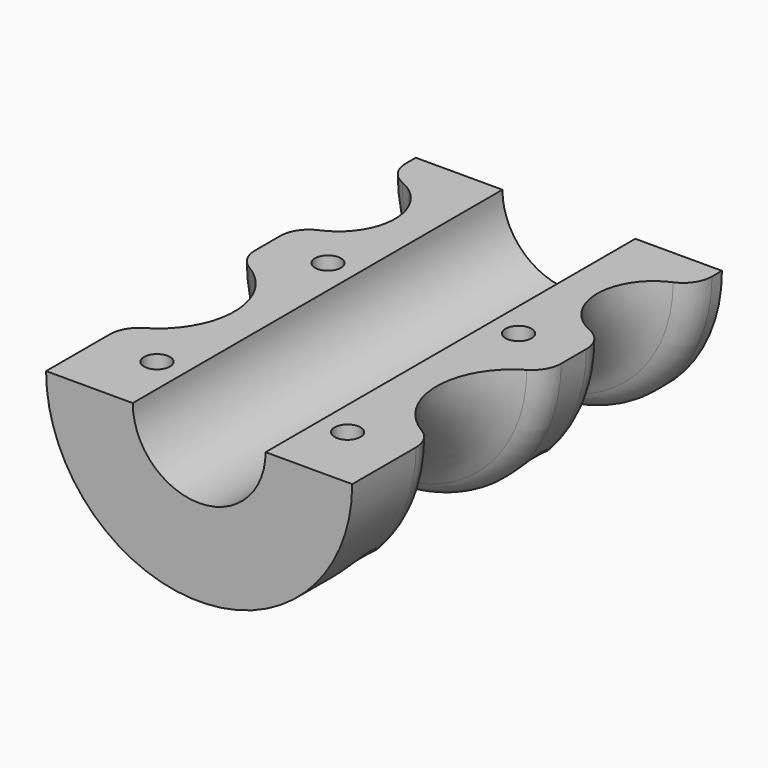
from build123d import *

# Parameters (mm, degrees)
F1_ANGLE       = 180
F4_D           = 4.5
F4_START       = 9.7071445
F4_CBORE_D     = 8
F4_CBORE_DEPTH = 8
F5_D           = 4.5
F6_DEPTH       = 16
F7_DEPTH       = 16


with BuildPart() as f1:
    # F0 (on Top) → F1 (revolve)
    with BuildSketch(Plane.XY):
        with BuildLine():
            Line((11.5, 80), (11.5, 0))
            Line((11.5, 0), (26.5, 0))
            Line((26.5, 0), (26.5, 13.8076451735))
            ThreePointArc((26.5, 13.8076451735), (25.8372883559, 16.2952001412), (24.0248281131, 18.123342452))
            ThreePointArc((24.0248281131, 18.123342452), (17.5, 29.5), (24.0248281131, 40.876657548))
            ThreePointArc((24.0248281131, 40.876657548), (25.8372883559, 42.7047998588), (26.5, 45.1923548265))
            Line((26.5, 45.1923548265), (26.5, 50.6462321396))
            ThreePointArc((26.5, 50.6462321396), (25.6700127509, 53.4050350788), (23.455602537, 55.2479295131))
            ThreePointArc((23.455602537, 55.2479295131), (17.5, 64.25), (23.455602537, 73.2520704869))
            ThreePointArc((23.455602537, 73.2520704869), (25.6700127509, 75.0949649212), (26.5, 77.8537678604))
            Line((26.5, 77.8537678604), (26.5, 80))
            Line((26.5, 80), (11.5, 80))
        make_face()
    revolve(axis=Axis((0, 49.9980136495, 0), (0, 1, 0)), revolution_arc=F1_ANGLE)

    # F4 (through all)
    # its depths count from where the whole tool has entered the part; down to there all is cleared
    with Locations(Plane(origin=(0, 0, -26.5), x_dir=(1, 0, 0), z_dir=(0, 0, -1)).offset(-F4_START)):
        with Locations((16.5, -11.5), (16.5, -48.5)):
            CounterBoreHole(F4_D / 2, F4_CBORE_D / 2, F4_CBORE_DEPTH)

    # F5 (through all)
    with Locations(Plane(origin=(0, 0, -26.5), x_dir=(1, 0, 0), z_dir=(0, 0, -1))):
        with Locations((-16.5, -48.5), (-16.5, -11.5)):
            Hole(F5_D / 2)

    # F3 (on offset) → F6 (cut)
    with BuildSketch(Plane.XY.offset(-26.5)):
        Polygon((-14.7679491924, 14.5), (-18.2320508076, 14.5), (-19.9641016151, 11.5), (-18.2320508076, 8.5), (-14.7679491924, 8.5), (-13.0358983849, 11.5), align=None)
    extrude(amount=F6_DEPTH, mode=Mode.SUBTRACT)

    # F3 (on offset) → F7 (cut)
    with BuildSketch(Plane.XY.offset(-26.5)):
        Polygon((-19.9641016151, 48.5), (-18.2320508076, 45.5), (-14.7679491924, 45.5), (-13.0358983849, 48.5), (-14.7679491924, 51.5), (-18.2320508076, 51.5), align=None)
    extrude(amount=F7_DEPTH, mode=Mode.SUBTRACT)


solid = f1.part
